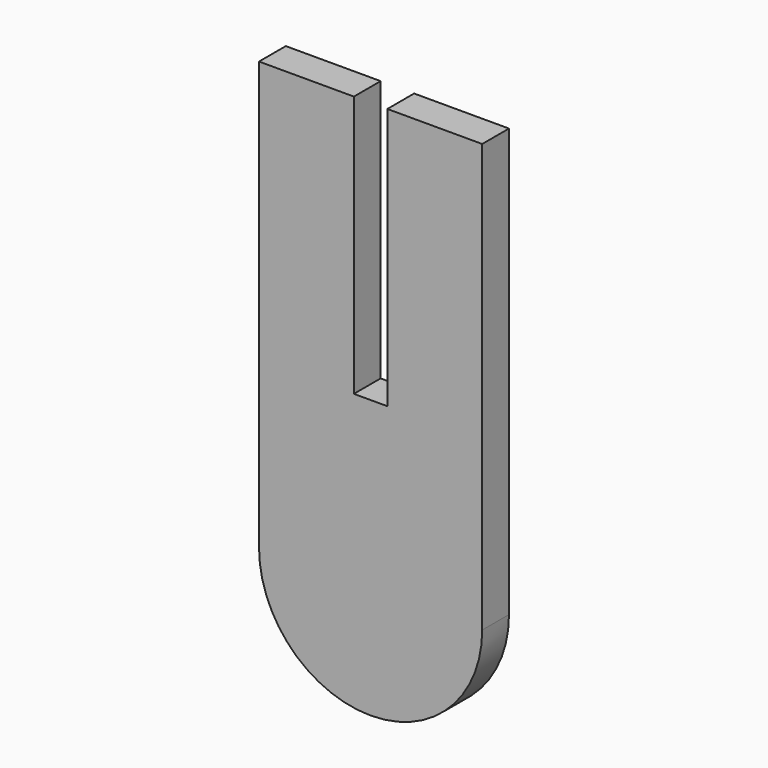
from build123d import *

# Parameters (mm, degrees)
F1_DEPTH = 3


with BuildPart() as f1:
    # F0 (on Front) → F1 (new body)
    with BuildSketch(Plane.XZ):
        with BuildLine():
            Line((10, -19.17), (10, 19.17))
            Line((10, 19.17), (1.5, 19.17))
            Line((1.5, 19.17), (1.5, -4.28))
            Line((1.5, -4.28), (-1.5, -4.28))
            Line((-1.5, -4.28), (-1.5, 19.17))
            Line((-1.5, 19.17), (-10, 19.17))
            Line((-10, 19.17), (-10, -19.17))
            ThreePointArc((-10, -19.17), (0, -29.17), (10, -19.17))
        make_face()
    extrude(amount=F1_DEPTH)


solid = f1.part
